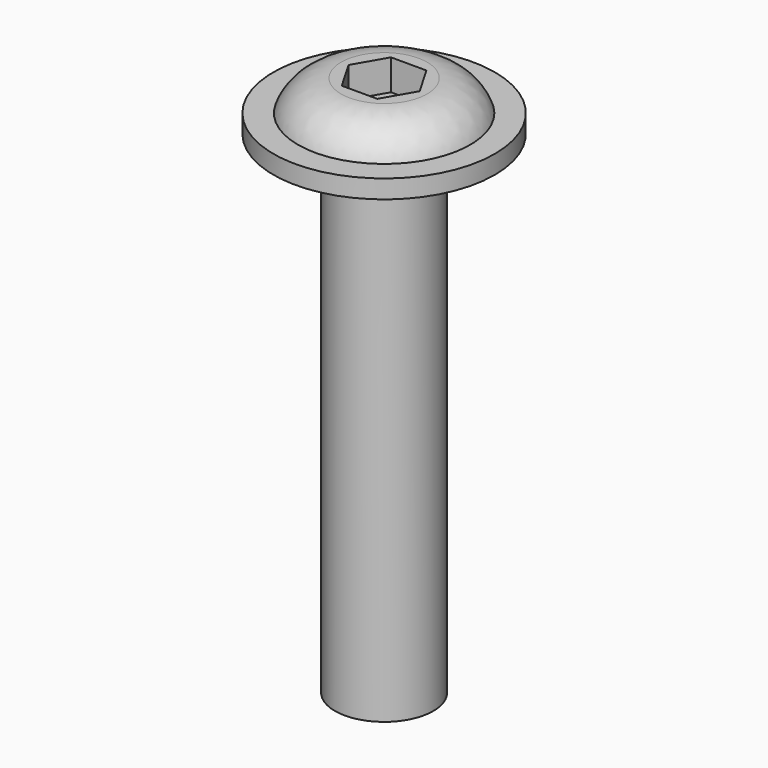
from build123d import *

# Parameters (mm, degrees)
F3_DEPTH = 3
F4_R     = 9
F5_DEPTH = 1.5


with BuildPart() as f1:
    # F0 (on Front) → F1 (revolve)
    with BuildSketch(Plane.XZ):
        with BuildLine():
            Line((-4, 0), (0, 0))
            Line((0, 0), (0, 44))
            Line((0, 44), (-3.5, 44))
            ThreePointArc((-3.5, 44), (-5.650581, 43.310814), (-7, 41.5))
            Line((-7, 41.5), (-7, 40))
            Line((-7, 40), (-4, 40))
            Line((-4, 40), (-4, 0))
        make_face()
    revolve(axis=Axis((0, 0, 22), (0, 0, 1)))

    # F2 (on face) → F3 (cut)
    with BuildSketch(Plane.XY.offset(44)):
        Polygon((1.443376, 2.5), (-1.443376, 2.5), (-2.886751, 0), (-1.443376, -2.5), (1.443376, -2.5), (2.886751, 0), align=None)
    extrude(amount=-F3_DEPTH, mode=Mode.SUBTRACT)

    # F4 (on face) → F5 (join)
    with BuildSketch(Plane(origin=(0, 0, 40), x_dir=(1, 0, 0), z_dir=(0, 0, -1))):
        Circle(F4_R)
    extrude(amount=-F5_DEPTH)


solid = f1.part
